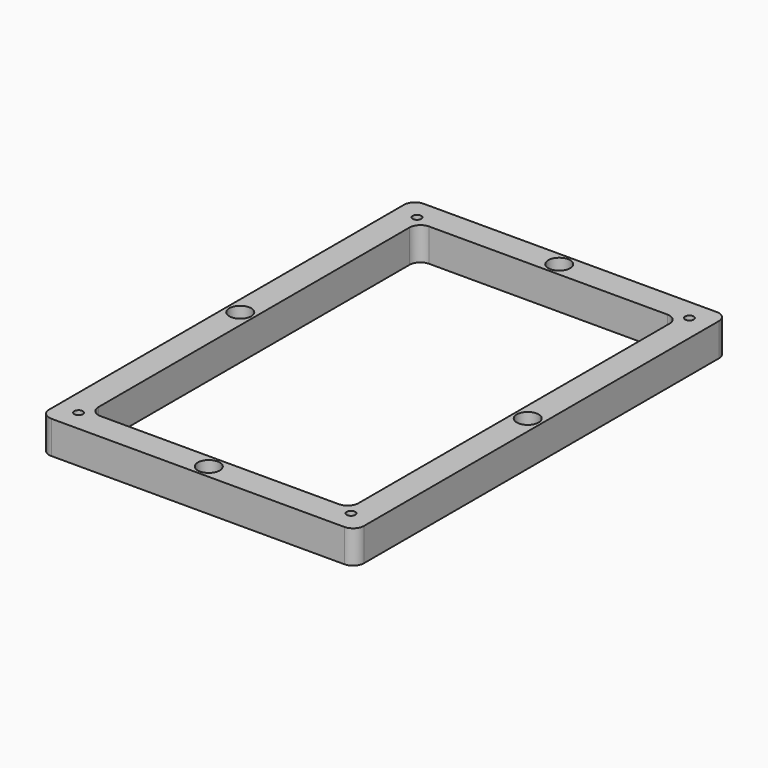
from build123d import *

# Parameters (mm, degrees)
F0_W      = 115
F0_H      = 170
F1_DEPTH  = 12
F2_W      = 95
F2_H      = 150
F3_DEPTH  = 12.001
F4_R      = 1.55
F5_DEPTH  = 12.001
F6_R      = 4
F7_R      = 1.55
F8_DEPTH  = 12.001
F9_R      = 4
F10_DEPTH = 5


with BuildPart() as f1:
    # F0 (on Top) → F1 (new body)
    with BuildSketch(Plane.XY):
        Rectangle(F0_W, F0_H)
    extrude(amount=F1_DEPTH)

    # F2 (on face) → F3 (cut, through all)
    with BuildSketch(Plane.XY.offset(12)):
        Rectangle(F2_W, F2_H)
    extrude(amount=-F3_DEPTH, mode=Mode.SUBTRACT)

    # F4 (on face) → F5 (cut, through all)
    with BuildSketch(Plane.XY.offset(12)):
        with Locations((0, 80)):
            Circle(F4_R)
        with Locations((0, -80)):
            Circle(F4_R)
        with Locations((52.5, 0)):
            Circle(F4_R)
        with Locations((-52.5, 0)):
            Circle(F4_R)
    extrude(amount=-F5_DEPTH, mode=Mode.SUBTRACT)

    # F6
    f6_edges = [f1.edges().sort_by_distance(p)[0] for p in [
        (47.5, 75, 6),
        (-47.5, 75, 6),
        (57.5, 85, 6),
        (57.5, -85, 6),
        (-57.5, -85, 6),
        (-57.5, 85, 6),
        (47.5, -75, 6),
        (-47.5, -75, 6),
    ]]
    fillet(f6_edges, radius=F6_R)

    # F7 (on face) → F8 (cut, through all)
    with BuildSketch(Plane.XY.offset(12)):
        with Locations((-49.75, 77.25)):
            Circle(F7_R)
        with Locations((49.75, 77.25)):
            Circle(F7_R)
        with Locations((49.75, -77.25)):
            Circle(F7_R)
        with Locations((-49.75, -77.25)):
            Circle(F7_R)
    extrude(amount=-F8_DEPTH, mode=Mode.SUBTRACT)

    # F9 (on face) → F10 (cut)
    with BuildSketch(Plane.XY.offset(12)):
        with Locations((0, 80)):
            Circle(F9_R)
        with Locations((-52.5, 0)):
            Circle(F9_R)
        with Locations((0, -80)):
            Circle(F9_R)
        with Locations((52.5, 0)):
            Circle(F9_R)
    extrude(amount=-F10_DEPTH, mode=Mode.SUBTRACT)


solid = f1.part
